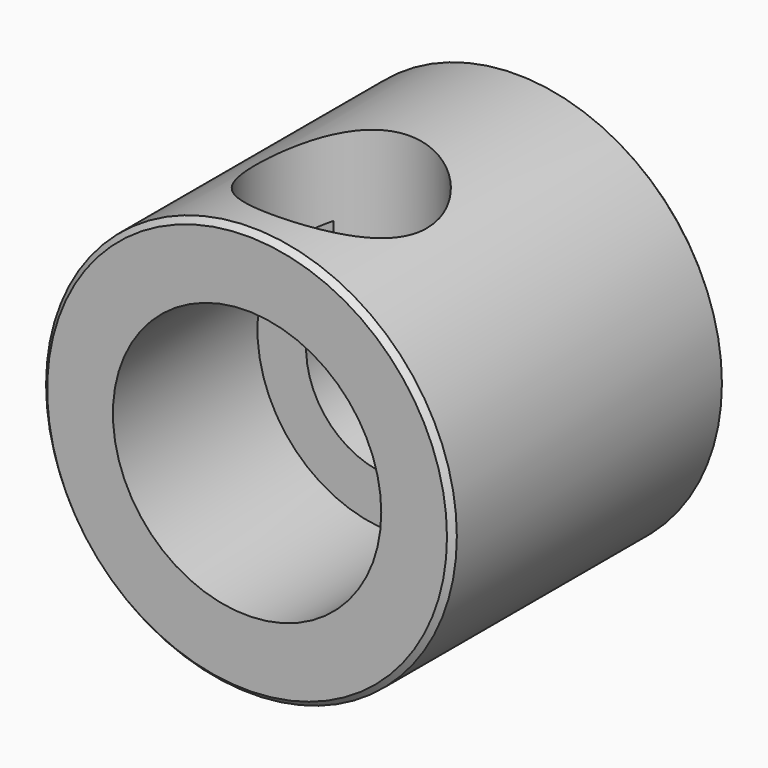
from build123d import *

# Parameters (mm, degrees)
F0_R     = 9.525
F1_DEPTH = 15.875
F2_R     = 3.96875
F3_DEPTH = 15.876
F4_R     = 6.223
F4_R_2   = 3.96875
F5_DEPTH = 8.382
F6_SIZE  = 0.254
F7_R     = 3.96875
F8_DEPTH = 10.5250001002


with BuildPart() as f1:
    # F0 (on Front) → F1 (new body)
    with BuildSketch(Plane.XZ):
        Circle(F0_R)
    extrude(amount=F1_DEPTH)

    # F2 (on face) → F3 (cut, through all)
    with BuildSketch(Plane.XZ.offset(15.875)):
        Circle(F2_R)
    extrude(amount=-F3_DEPTH, mode=Mode.SUBTRACT)

    # F4 (on face) → F5 (cut)
    with BuildSketch(Plane.XZ.offset(15.875)):
        Circle(F4_R)
        Circle(F4_R_2, mode=Mode.SUBTRACT)
    extrude(amount=-F5_DEPTH, mode=Mode.SUBTRACT)

    # F6
    f6_edges = [f1.edges().sort_by_distance(p)[0] for p in [
        (-9.525, -15.875, 0),
        (-9.525, 0, 0),
    ]]
    chamfer(f6_edges, length=F6_SIZE)

    # F7 (on Top) → F8 (cut, up to face)
    with BuildSketch(Plane.XY):
        with Locations((0, -10.414)):
            Circle(F7_R)
    extrude(amount=F8_DEPTH, mode=Mode.SUBTRACT)


solid = f1.part
